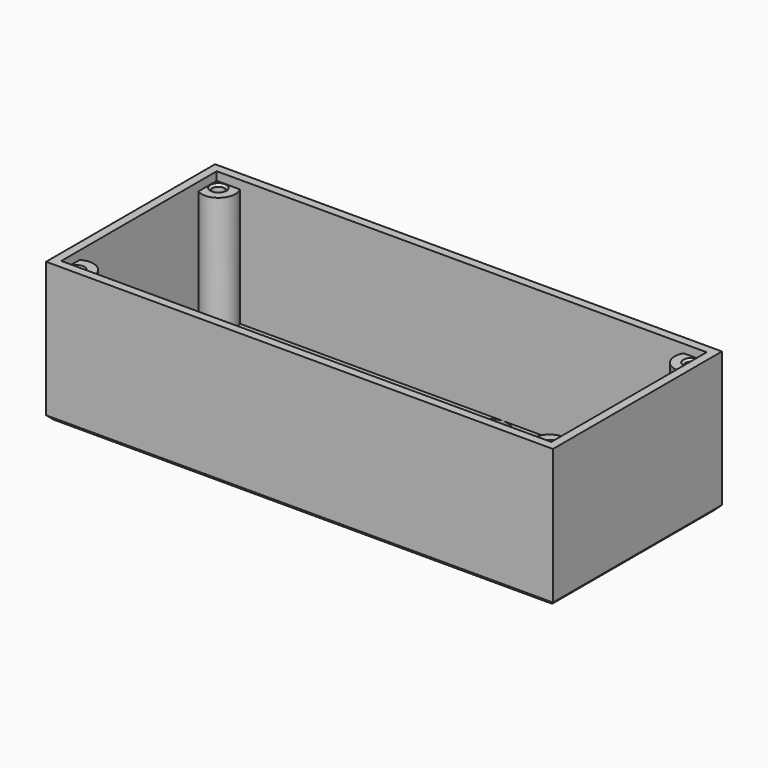
from build123d import *

# Parameters (mm, degrees)
SKETCH_W        = 120
SKETCH_H        = 50
PAD_DEPTH       = 3
SKETCH001_R     = 4
POCKET_DEPTH    = 5
SKETCH002_W     = 120
SKETCH002_H     = 50
SKETCH002_W_2   = 116
SKETCH002_H_2   = 46
PAD001_DEPTH    = 30
SKETCH003_R     = 1.6
POCKET001_DEPTH = 5
SKETCH004_R     = 4
PAD002_DEPTH    = 28
SKETCH005_R     = 1.4
POCKET002_DEPTH = 26
CHAMFER_SIZE    = 0.5
CHAMFER001_SIZE = 1


with BuildPart() as part:
    # Sketch → Pad (new body)
    with BuildSketch(Plane.XY):
        Rectangle(SKETCH_W, SKETCH_H)
    extrude(amount=PAD_DEPTH)

    # Sketch001 (on Face6 of Pad) → Pocket (cut)
    with BuildSketch(Plane.XY.offset(3)):
        with Locations((10, 19)):
            Circle(SKETCH001_R)
        with Locations((22, 19)):
            Circle(SKETCH001_R)
        with Locations((34, 19)):
            Circle(SKETCH001_R)
        with Locations((46, 19)):
            Circle(SKETCH001_R)
    extrude(amount=-POCKET_DEPTH, mode=Mode.SUBTRACT)

    # Sketch002 (on Face5 of Pocket) → Pad001 (join)
    with BuildSketch(Plane.XY.offset(3)):
        Rectangle(SKETCH002_W, SKETCH002_H)
        Rectangle(SKETCH002_W_2, SKETCH002_H_2, mode=Mode.SUBTRACT)
    extrude(amount=PAD001_DEPTH)

    # Sketch003 (on Face4 of Pad001) → Pocket001 (cut)
    with BuildSketch(Plane(origin=(0, 0, 0), x_dir=(1, 0, 0), z_dir=(0, 0, -1))):
        with Locations((-20, -12.5)):
            Circle(SKETCH003_R)
        with Locations((0, -12.5)):
            Circle(SKETCH003_R)
        with Locations((20, -12.5)):
            Circle(SKETCH003_R)
    extrude(amount=-POCKET001_DEPTH, mode=Mode.SUBTRACT)

    # Sketch004 (on Face18 of Pocket001) → Pad002 (join)
    with BuildSketch(Plane.XY.offset(3)):
        with Locations((-56, 21)):
            Circle(SKETCH004_R)
        with Locations((-56, -21)):
            Circle(SKETCH004_R)
        with Locations((56, 21)):
            Circle(SKETCH004_R)
        with Locations((56, -21)):
            Circle(SKETCH004_R)
    extrude(amount=PAD002_DEPTH)

    # Sketch005 (on Face29 of Pad002) → Pocket002 (cut)
    with BuildSketch(Plane.XY.offset(31)):
        with Locations((-56, 21)):
            Circle(SKETCH005_R)
        with Locations((56, 21)):
            Circle(SKETCH005_R)
        with Locations((56, -21)):
            Circle(SKETCH005_R)
        with Locations((-56, -21)):
            Circle(SKETCH005_R)
    extrude(amount=-POCKET002_DEPTH, mode=Mode.SUBTRACT)

    # Chamfer
    chamfer_edges = [part.edges().sort_by_distance(p)[0] for p in [
        (54.6, 21, 31),
        (54.6, -21, 31),
        (-57.4, -21, 31),
        (-57.4, 21, 31),
    ]]
    chamfer(chamfer_edges, length=CHAMFER_SIZE)

    # Chamfer001
    chamfer001_edges = [part.edges().sort_by_distance(p)[0] for p in [
        (0, 25, 0),
        (-60, 0, 0),
        (0, -25, 0),
        (60, 0, 0),
    ]]
    chamfer(chamfer001_edges, length=CHAMFER001_SIZE)


solid = part.part
